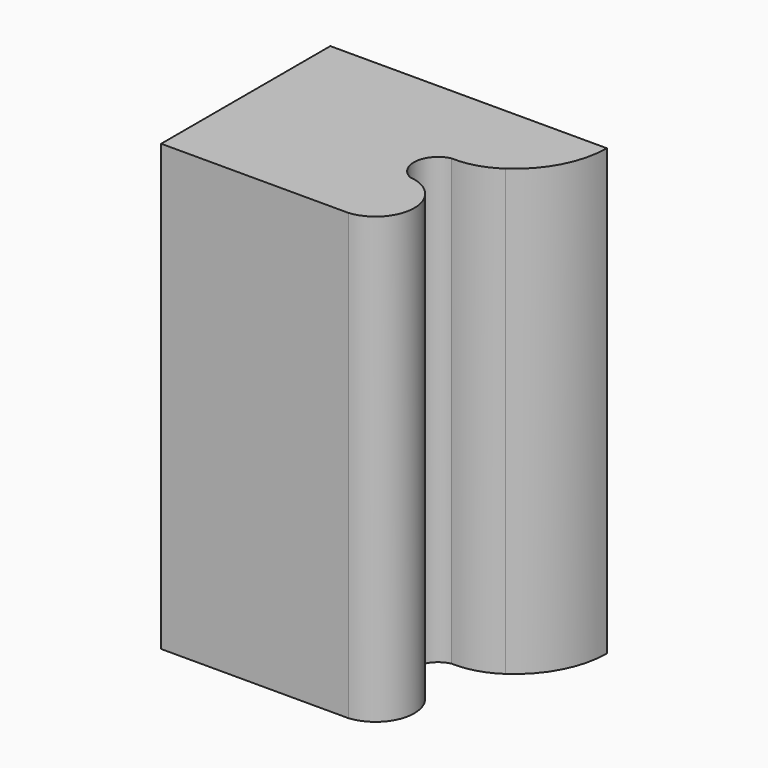
from build123d import *

# Parameters (mm, degrees)
F0_W     = 85
F0_H     = 136.75
F1_DEPTH = 65
F3_DEPTH = 200


with BuildPart() as f1:
    # F0 (on Front) → F1 (new body)
    with BuildSketch(Plane.XZ):
        Rectangle(F0_W, F0_H)
    extrude(amount=F1_DEPTH)

    # F2 (on face) → F3 (cut)
    with BuildSketch(Plane.XY.offset(68.375)):
        with BuildLine():
            ThreePointArc((42.5, 0), (39.220219, -13.260584), (30.137157, -23.463428))
            ThreePointArc((30.137157, -23.463428), (23.716021, -26.537316), (16.649198, -27.397415))
            ThreePointArc((16.649198, -27.397415), (10.926292, -33.802126), (15.103702, -41.306872))
            ThreePointArc((15.103702, -41.306872), (25.834637, -53.153436), (15.103702, -65))
            Line((15.103702, -65), (42.5, -65))
            Line((42.5, -65), (42.5, 0))
        make_face()
    extrude(amount=-F3_DEPTH, mode=Mode.SUBTRACT)


solid = f1.part
